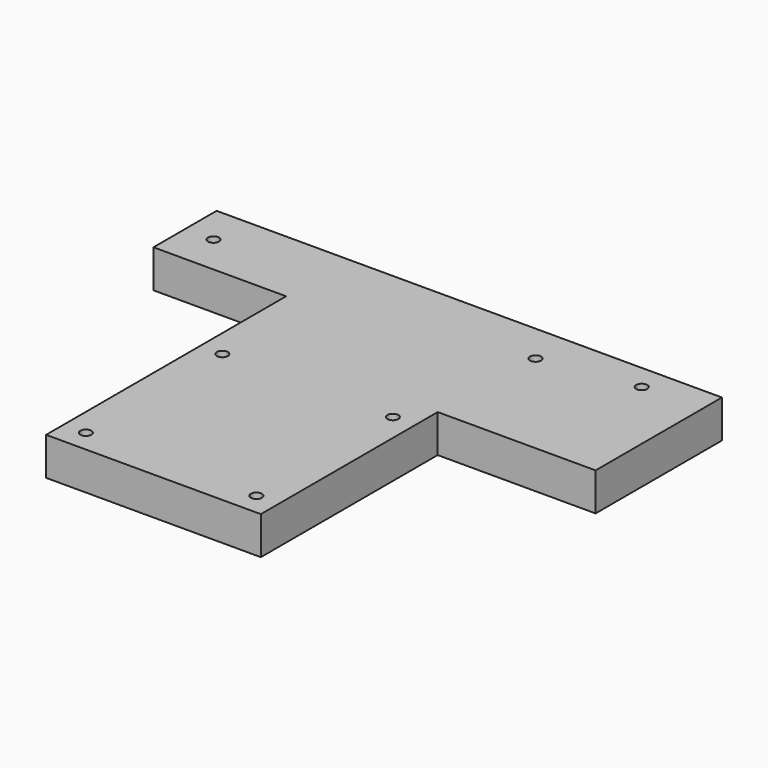
from build123d import *

# Parameters (mm, degrees)
F0_R     = 1.75
F1_DEPTH = 12
F2_R     = 1.75
F3_DEPTH = 15


with BuildPart() as f1:
    # F0 (on Top) → F1 (new body)
    with BuildSketch(Plane.XY):
        Polygon((160, 0), (0, 0), (0, -25), (42, -25), (42, -120), (110, -120), (110, -50), (160, -50), align=None)
        with Locations((49, -113)):
            Circle(F0_R, mode=Mode.SUBTRACT)
        with Locations((103, -113)):
            Circle(F0_R, mode=Mode.SUBTRACT)
        with Locations((49, -59)):
            Circle(F0_R, mode=Mode.SUBTRACT)
        with Locations((9, -12.5)):
            Circle(F0_R, mode=Mode.SUBTRACT)
        with Locations((103, -59)):
            Circle(F0_R, mode=Mode.SUBTRACT)
        with Locations((111, -12.5)):
            Circle(F0_R, mode=Mode.SUBTRACT)
        with Locations((141, -8)):
            Circle(F0_R, mode=Mode.SUBTRACT)
    extrude(amount=F1_DEPTH)

    # F2 (on face) → F3 (cut)
    with BuildSketch(Plane(origin=(0, 0, 0), x_dir=(-1, 0, 0), z_dir=(0, 1, 0))):
        with Locations((-156, 6)):
            Circle(F2_R)
        with Locations((-84, 6)):
            Circle(F2_R)
        with Locations((-13, 6)):
            Circle(F2_R)
    extrude(amount=-F3_DEPTH, mode=Mode.SUBTRACT)


solid = f1.part
